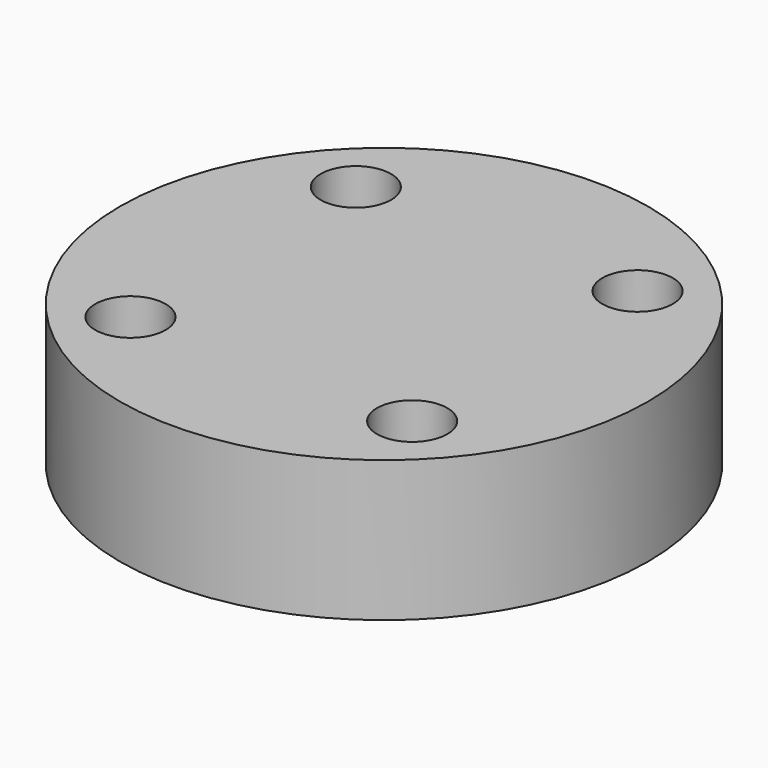
from build123d import *

# Parameters (mm, degrees)
CYLINDER1402_R     = 1
CYLINDER1402_DEPTH = 20
CYLINDER1407_R     = 1
CYLINDER1407_DEPTH = 20
CYLINDER1397_R     = 1
CYLINDER1397_DEPTH = 20
CYLINDER1409_R     = 1
CYLINDER1409_DEPTH = 20
CYLINDER1394_R     = 7.5
CYLINDER1394_DEPTH = 4


with BuildPart() as obj1:
    # Cylinder1402 → Cylinder1402 (new body)
    with BuildSketch(Plane(origin=(4, -4, -88), x_dir=(0, 1, 0), z_dir=(0, 0, 1))):
        Circle(CYLINDER1402_R)
    extrude(amount=CYLINDER1402_DEPTH)


with BuildPart() as obj2:
    # Cylinder1407 → Cylinder1407 (new body)
    with BuildSketch(Plane(origin=(4, 4, -88), x_dir=(-1, 0, 0), z_dir=(0, 0, 1))):
        Circle(CYLINDER1407_R)
    extrude(amount=CYLINDER1407_DEPTH)


with BuildPart() as obj3:
    # Cylinder1397 → Cylinder1397 (new body)
    with BuildSketch(Plane(origin=(-4, 4, -88), x_dir=(0, -1, 0), z_dir=(0, 0, 1))):
        Circle(CYLINDER1397_R)
    extrude(amount=CYLINDER1397_DEPTH)


with BuildPart() as compound965:
    # Cylinder1409 → Cylinder1409 (new body)
    with BuildSketch(Plane(origin=(-4, -4, -88), x_dir=(1, 0, 0), z_dir=(0, 0, 1))):
        Circle(CYLINDER1409_R)
    extrude(amount=CYLINDER1409_DEPTH)

    # Compound965: union obj1, obj2, obj3
    add(obj1.part)
    add(obj2.part)
    add(obj3.part)


with BuildPart() as compound965_1:
    # Compound965 placement: moved
    add(compound965.part.moved(Location((0, 0, 91))))


with BuildPart() as cut505:
    # Cylinder1394 → Cylinder1394 (new body)
    with BuildSketch(Plane.XY.offset(15)):
        Circle(CYLINDER1394_R)
    extrude(amount=CYLINDER1394_DEPTH)

    # Cut505: cut Compound965
    add(compound965_1.part, mode=Mode.SUBTRACT)


solid = cut505.part
